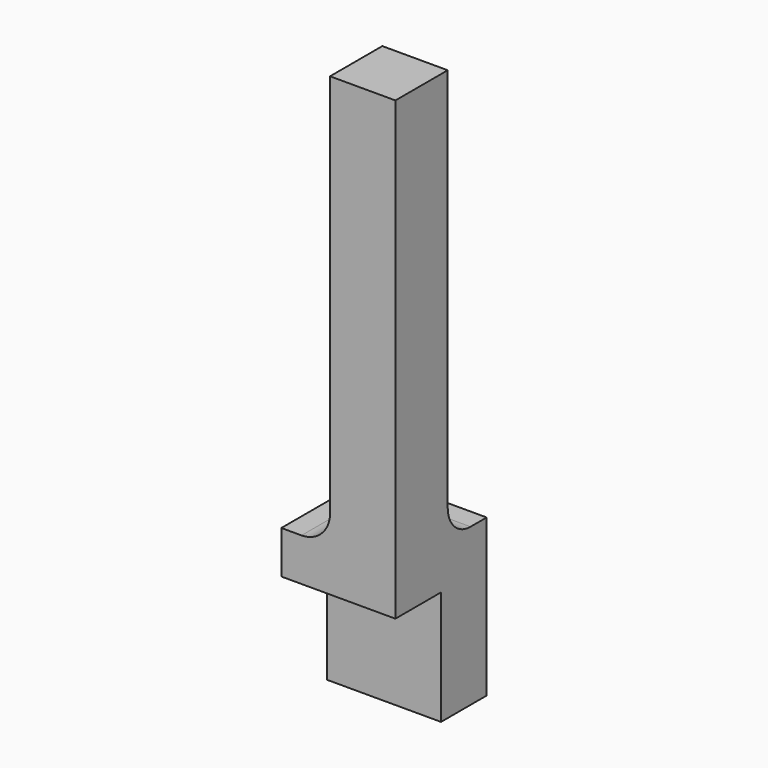
from build123d import *

# Parameters (mm, degrees)
F0_W      = 50.8
F0_H      = 50.8
F1_DEPTH  = 254
F3_DEPTH  = 50.801
F5_DEPTH  = 50.801
F6_R      = 12.7
F7_DEPTH  = 25.4
F8_W      = 25.4
F8_H      = 50.8
F9_DEPTH  = 50.8010001
F10_R     = 4.8895
F11_DEPTH = 69.851


with BuildPart() as f1:
    # F0 (on Top) → F1 (new body)
    with BuildSketch(Plane.XY):
        with Locations((-25.4, 25.4)):
            Rectangle(F0_W, F0_H)
    extrude(amount=F1_DEPTH)

    # F2 (on face) → F3 (cut, through all)
    with BuildSketch(Plane(origin=(-50.8, 0, 0), x_dir=(0, -1, 0), z_dir=(-1, 0, 0))):
        with BuildLine():
            Line((-50.8, 254), (-50.8, 69.85))
            Line((-50.8, 69.85), (-41.8197438789, 69.85))
            ThreePointArc((-41.8197438789, 69.85), (-32.8394877579, 73.5697438789), (-29.1197438789, 82.55))
            Line((-29.1197438789, 82.55), (-29.1197438789, 254))
            Line((-29.1197438789, 254), (-50.8, 254))
        make_face()
    extrude(amount=-F3_DEPTH, mode=Mode.SUBTRACT)

    # F4 (on face) → F5 (cut, through all)
    with BuildSketch(Plane(origin=(0, 50.8, 0), x_dir=(-1, 0, 0), z_dir=(0, 1, 0))):
        with BuildLine():
            ThreePointArc((29.1197438789, 82.55), (32.8394877579, 73.5697438789), (41.8197438789, 69.85))
            Line((41.8197438789, 69.85), (50.8, 69.85))
            Line((50.8, 69.85), (50.8, 254))
            Line((50.8, 254), (29.1197438789, 254))
            Line((29.1197438789, 254), (29.1197438789, 82.55))
        make_face()
    extrude(amount=-F5_DEPTH, mode=Mode.SUBTRACT)

    # F6 (on face) → F7 (cut)
    with BuildSketch(Plane.XY.offset(69.85)):
        with Locations((-38.1, 38.1)):
            Circle(F6_R)
    extrude(amount=F7_DEPTH, mode=Mode.SUBTRACT)

    # F8 (on face) → F9 (cut, through all)
    with BuildSketch(Plane(origin=(-50.8, 0, 0), x_dir=(0, -1, 0), z_dir=(-1, 0, 0))):
        with Locations((-12.7, 25.4)):
            Rectangle(F8_W, F8_H)
    extrude(amount=-F9_DEPTH, mode=Mode.SUBTRACT)

    # F10 (on face) → F11 (cut, through all)
    with BuildSketch(Plane.XY.offset(69.85)):
        with Locations((-38.1, 38.1)):
            Circle(F10_R)
    extrude(amount=-F11_DEPTH, mode=Mode.SUBTRACT)


solid = f1.part
